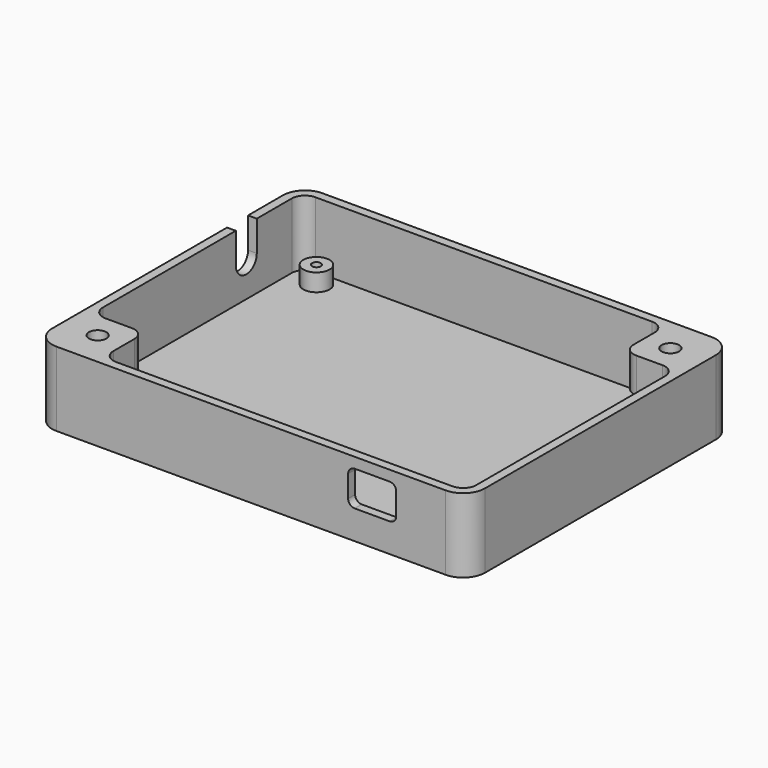
from build123d import *

# Parameters (mm, degrees)
PAD_DEPTH       = 17
POCKET_DEPTH    = 15
SKETCH002_R     = 3
PAD001_DEPTH    = 4
POCKET002_DEPTH = 5
POCKET003_DEPTH = 5
SKETCH006_R     = 1.99
PAD002_DEPTH    = 8
FILLET_R        = 3
FILLET001_R     = 2
FILLET002_R     = 2
SKETCH007_R     = 1
POCKET004_DEPTH = 4.5


with BuildPart() as part:
    # Sketch → Pad (new body)
    with BuildSketch(Plane.XY):
        with BuildLine():
            Line((-44.5, 38), (44.5, 38))
            ThreePointArc((49.5, 33), (48.035534, 36.535534), (44.5, 38))
            Line((49.5, 33), (49.5, -33))
            ThreePointArc((44.5, -38), (48.035534, -36.535534), (49.5, -33))
            Line((44.5, -38), (-44.5, -38))
            ThreePointArc((-49.5, -33), (-48.035534, -36.535534), (-44.5, -38))
            Line((-49.5, -33), (-49.5, 33))
            ThreePointArc((-44.5, 38), (-48.035534, 36.535534), (-49.5, 33))
        make_face()
    extrude(amount=PAD_DEPTH)

    # Sketch001 (on Face10 of Pad) → Pocket (cut)
    with BuildSketch(Plane.XY.offset(17)):
        with BuildLine():
            Line((-44.5, 36), (44.5, 36))
            ThreePointArc((47.5, 33), (46.62132, 35.12132), (44.5, 36))
            Line((47.5, 33), (47.5, -33))
            ThreePointArc((44.5, -36), (46.62132, -35.12132), (47.5, -33))
            Line((44.5, -36), (-44.5, -36))
            ThreePointArc((-47.5, -33), (-46.62132, -35.12132), (-44.5, -36))
            Line((-47.5, -33), (-47.5, 33))
            ThreePointArc((-44.5, 36), (-46.62132, 35.12132), (-47.5, 33))
        make_face()
    extrude(amount=-POCKET_DEPTH, mode=Mode.SUBTRACT)

    # Sketch002 (on Face19 of Pocket) → Pad001 (join)
    with BuildSketch(Plane.XY.offset(2)):
        with Locations((-41.25, 32.25)):
            Circle(SKETCH002_R)
        with Locations((41.25, -32.25)):
            Circle(SKETCH002_R)
    extrude(amount=PAD001_DEPTH)

    # Sketch004 → Pocket002 (cut)
    with BuildSketch(Plane.XZ.offset(38)):
        with BuildLine():
            Line((23.7, 14.6), (31.7, 14.6))
            ThreePointArc((33.2, 13.1), (32.76066, 14.16066), (31.7, 14.6))
            Line((33.2, 13.1), (33.2, 8.1))
            ThreePointArc((31.7, 6.6), (32.76066, 7.03934), (33.2, 8.1))
            Line((31.7, 6.6), (23.7, 6.6))
            ThreePointArc((22.2, 8.1), (22.63934, 7.03934), (23.7, 6.6))
            Line((22.2, 8.1), (22.2, 13.1))
            ThreePointArc((23.7, 14.6), (22.63934, 14.16066), (22.2, 13.1))
        make_face()
    extrude(amount=-POCKET002_DEPTH, mode=Mode.SUBTRACT)

    # Sketch005 (on Face1 of Pocket002) → Pocket003 (cut)
    with BuildSketch(Plane(origin=(-49.5, 0, 0), x_dir=(0, -1, 0), z_dir=(-1, 0, 0))):
        with BuildLine():
            Line((-23, 17), (-17, 17))
            Line((-17, 17), (-17, 10))
            ThreePointArc((-23, 10), (-20, 7), (-17, 10))
            Line((-23, 10), (-23, 17))
        make_face()
    extrude(amount=-POCKET003_DEPTH, mode=Mode.SUBTRACT)

    # Sketch006 (on Face30 of Pocket003) → Pad002 (join)
    with BuildSketch(Plane.XY.offset(9)):
        with BuildLine():
            Line((44.5, 36), (35.5, 36))
            Line((35.5, 36), (35.5, 27))
            ThreePointArc((35.5, 27), (36.37868, 24.87868), (38.5, 24))
            Line((38.5, 24), (47.5, 24))
            Line((47.5, 24), (47.5, 33))
            ThreePointArc((47.5, 33), (46.62132, 35.12132), (44.5, 36))
        make_face()
        with Locations((41.5, 30)):
            Circle(SKETCH006_R, mode=Mode.SUBTRACT)
        with BuildLine():
            Line((-38.5, -24), (-47.5, -24))
            Line((-47.5, -24), (-47.5, -33))
            ThreePointArc((-47.5, -33), (-46.62132, -35.12132), (-44.5, -36))
            Line((-44.5, -36), (-35.5, -36))
            Line((-35.5, -36), (-35.5, -27))
            ThreePointArc((-35.5, -27), (-36.37868, -24.87868), (-38.5, -24))
        make_face()
        with Locations((-41.5, -30)):
            Circle(SKETCH006_R, mode=Mode.SUBTRACT)
    extrude(amount=PAD002_DEPTH)

    # Fillet
    fillet_edges = [part.edges().sort_by_distance(p)[0] for p in [
        (47.5, 24, 13),
        (35.5, 36, 13),
        (-35.5, -36, 13),
        (-47.5, -24, 13),
    ]]
    fillet(fillet_edges, radius=FILLET_R)

    # Fillet001
    fillet001_edges = [part.edges().sort_by_distance(p)[0] for p in [
        (40, 36, 9),
        (47.5, 28.5, 9),
        (47.5, 22.5, 9),
        (34, 36, 9),
    ]]
    fillet(fillet001_edges, radius=FILLET001_R)

    # Fillet002
    fillet002_edges = [part.edges().sort_by_distance(p)[0] for p in [
        (-46.62132, -35.12132, 9),
        (-47.5, -28.5, 9),
        (-47.5, -22.5, 9),
        (-40, -36, 9),
        (-34, -36, 9),
    ]]
    fillet(fillet002_edges, radius=FILLET002_R)

    # Sketch007 (on Face54 of Fillet002) → Pocket004 (cut)
    with BuildSketch(Plane.XY.offset(6)):
        with Locations((41.25, -32.25)):
            Circle(SKETCH007_R)
        with Locations((-41.25, 32.25)):
            Circle(SKETCH007_R)
    extrude(amount=-POCKET004_DEPTH, mode=Mode.SUBTRACT)


solid = part.part
